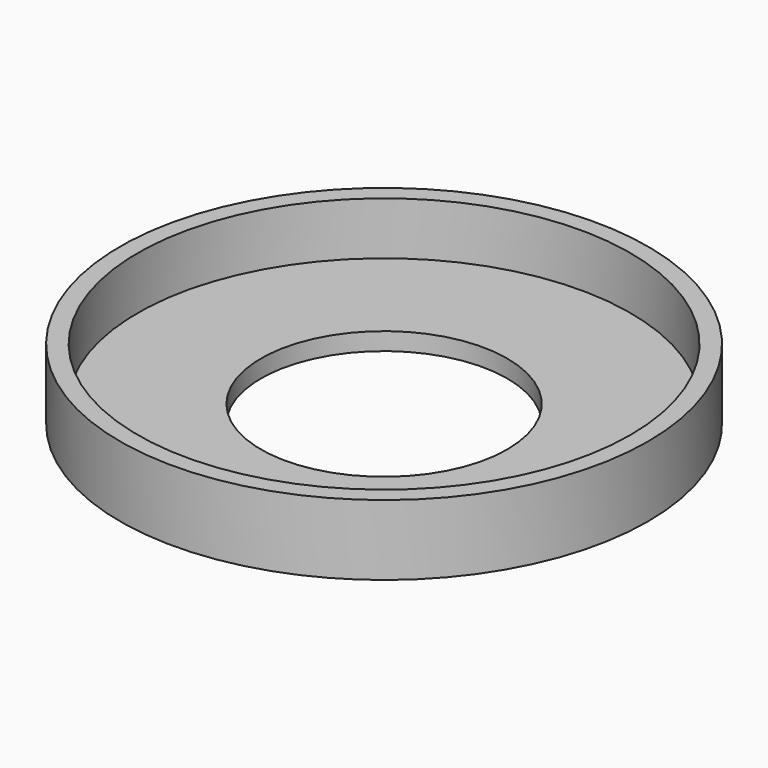
from build123d import *

# Parameters (mm, degrees)
F0_R     = 15
F1_DEPTH = 4
F2_T     = -1
F3_R     = 7
F4_DEPTH = 1.1


with BuildPart() as f1:
    # F0 (on Top) → F1 (new body)
    with BuildSketch(Plane.XY):
        Circle(F0_R)
    extrude(amount=F1_DEPTH)

    # F2
    f2_openings = [f1.faces().sort_by_distance(p)[0] for p in [
        (0, 0, 4),
    ]]
    offset(amount=F2_T, openings=f2_openings)

    # F3 (on Top) → F4 (cut)
    with BuildSketch(Plane.XY):
        Circle(F3_R)
    extrude(amount=F4_DEPTH, mode=Mode.SUBTRACT)


solid = f1.part
